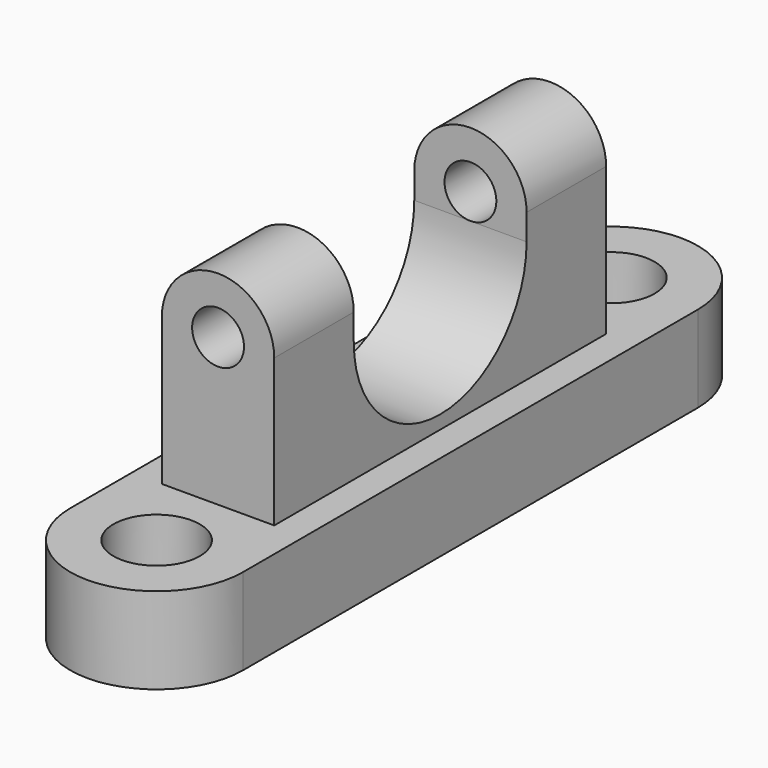
from build123d import *

# Parameters (mm, degrees)
F0_R          = 10
F1_DEPTH      = 20
F2_R          = 6
F3_DEPTH      = 48
F3_DEPTH_BACK = 48
F4_W          = 50
F4_H          = 48.9827908203
F5_DEPTH      = 26


with BuildPart() as f1:
    # F0 (on Top) → F1 (new body)
    with BuildSketch(Plane.XY):
        with BuildLine():
            Line((20, -65.7692336577), (20, 65.7692336577))
            ThreePointArc((20, 65.7692336577), (0, 85.7692336577), (-20, 65.7692336577))
            Line((-20, 65.7692336577), (-20, -65.7692336577))
            ThreePointArc((-20, -65.7692336577), (0, -85.7692336577), (20, -65.7692336577))
        make_face()
        with Locations((0, -65.7692336577)):
            Circle(F0_R, mode=Mode.SUBTRACT)
        with Locations((0, 65.7692336577)):
            Circle(F0_R, mode=Mode.SUBTRACT)
    extrude(amount=F1_DEPTH)

    # F2 (on Front) → F3 (join, two sides)
    with BuildSketch(Plane.XZ) as f3_sk:
        with BuildLine():
            Line((-13, 19.118946977), (13, 19.118946977))
            Line((13, 19.118946977), (13, 30.0338421203))
            Line((13, 30.0338421203), (13, 54.118946977))
            ThreePointArc((13, 54.118946977), (0, 67.118946977), (-13, 54.118946977))
            Line((-13, 54.118946977), (-13, 30.0338421203))
            Line((-13, 30.0338421203), (-13, 19.118946977))
        make_face()
        with Locations((0, 54.118946977)):
            Circle(F2_R, mode=Mode.SUBTRACT)
    extrude(amount=F3_DEPTH)
    extrude(f3_sk.sketch, amount=-F3_DEPTH_BACK)

    # F4 (on face) → F5 (cut, through all)
    with BuildSketch(Plane.YZ.offset(13)):
        with BuildLine():
            Line((-25.0000003725, 54.118946977), (-25.0000003725, 48.1017377973))
            ThreePointArc((-25.0000003725, 48.1017377973), (-3.725e-07, 23.1017377973), (24.9999996275, 48.1017377973))
            Line((24.9999996275, 48.1017377973), (24.9999996275, 54.118946977))
            Line((24.9999996275, 54.118946977), (-25.0000003725, 54.118946977))
        make_face()
        with Locations((-3.725e-07, 78.6103423871)):
            Rectangle(F4_W, F4_H)
    extrude(amount=-F5_DEPTH, mode=Mode.SUBTRACT)


solid = f1.part
